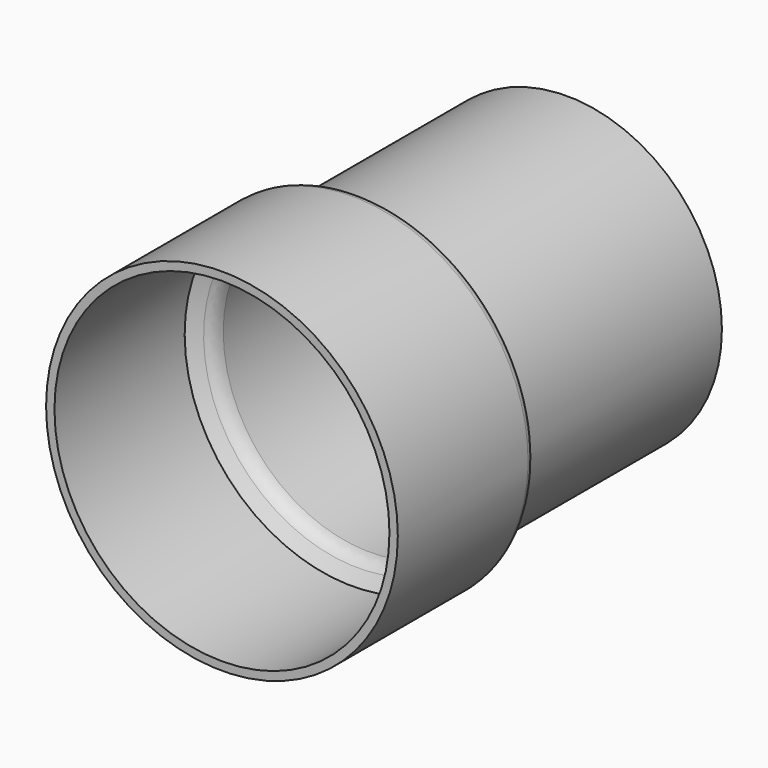
from build123d import *

# Parameters (mm, degrees)
F0_R      = 21
F1_DEPTH  = 20
F3_R      = 18.5
F4_DEPTH  = 30
F1_FACE_R = 21
F4_FACE_R = 18.5
F6_R      = 1
F7_T      = -1


with BuildPart() as f1:
    # F0 (on Front) → F1 (new body)
    with BuildSketch(Plane.XZ):
        Circle(F0_R)
    extrude(amount=F1_DEPTH)



with BuildPart() as f4:
    # F3 (on offset) → F4 (new body)
    with BuildSketch(Plane.XZ.offset(-1.5)):
        Circle(F3_R)
    extrude(amount=-F4_DEPTH)


with BuildPart() as f1_1:
    add(f1.part)

    add(f4.part)  # F5 merges F4
    # F1_face (on face) → F5 section 0
    with BuildSketch(Plane(origin=(0, 0, 0), x_dir=(1, 0, 0), z_dir=(0, 1, 0))):
        Circle(F1_FACE_R)
    # F4_face (on face) → F5 section 1
    with BuildSketch(Plane.XZ.offset(-1.5)):
        Circle(F4_FACE_R)
    loft()

    # F6
    f6_edges = [f1_1.edges().sort_by_distance(p)[0] for p in [
        (-21, 0, 0),
        (-18.5, 1.5, 0),
    ]]
    fillet(f6_edges, radius=F6_R)

    # F7
    f7_openings = [f1_1.faces().sort_by_distance(p)[0] for p in [
        (0, -20, 0),
        (0, 31.5, 0),
    ]]
    offset(amount=F7_T, openings=f7_openings)


solid = f1_1.part
